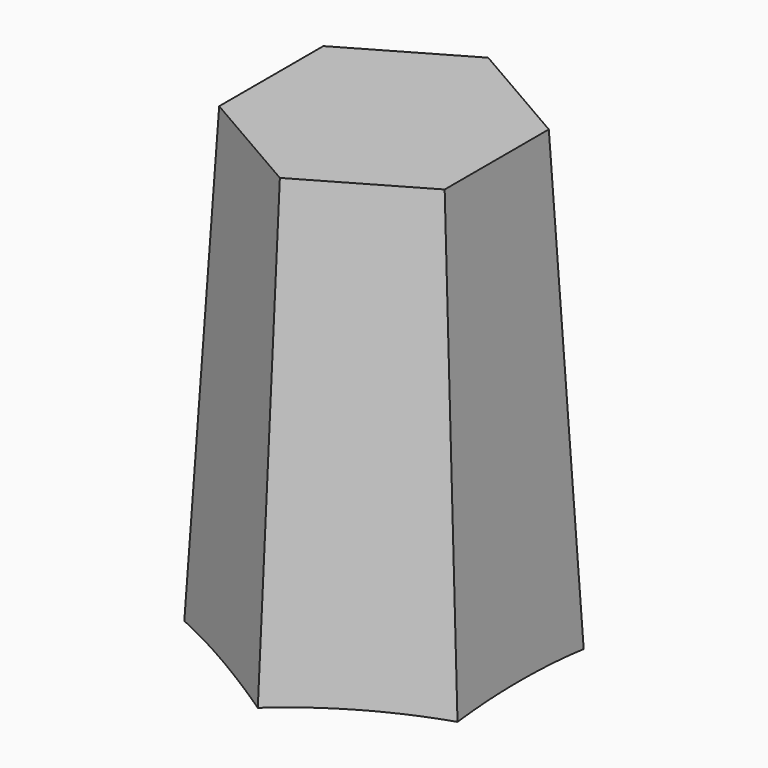
from build123d import *

# Parameters (mm, degrees)
F1_DEPTH = 10
F1_TAPER = 3


with BuildPart() as f1:
    # F0 (on Top) → F1 (new body)
    with BuildSketch(Plane.XY):
        Polygon((3, -1.7320508076), (3, 1.7320508076), (0, 3.4641016151), (-3, 1.7320508076), (-3, -1.7320508076), (0, -3.4641016151), align=None)
    extrude(amount=F1_DEPTH, taper=F1_TAPER)


with BuildPart() as f4:
    # F3 (on 3pt) → F4 (revolve)
    with BuildSketch(Plane(origin=(0, 0, 0), x_dir=(0.8660254038, -0.5, 0), z_dir=(-0.5, -0.8660254038, 0))):
        with BuildLine():
            Line((0, 0), (0, 0.2533346897))
            ThreePointArc((0, 0.2533346897), (-1.7412651517, 0.2526643975), (-3.4641016151, 0))
            Line((-3.4641016151, 0), (0, 0))
        make_face()
    revolve(axis=Axis((0, 0, 0.1266673449), (0, 0, -1)))


with BuildPart() as f1_1:
    add(f1.part)

    # F5: cut F4
    add(f4.part, mode=Mode.SUBTRACT)


solid = f1_1.part
